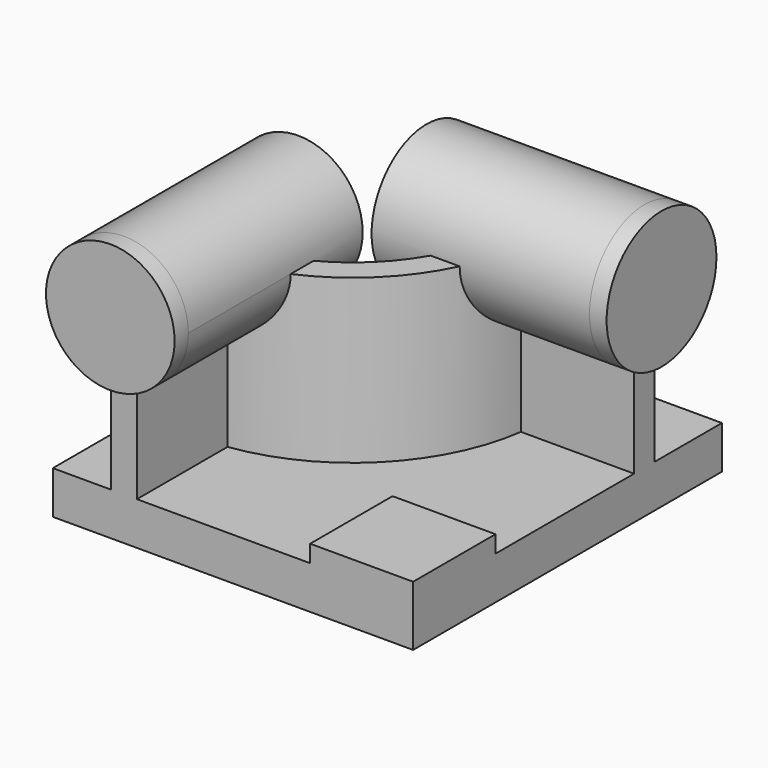
from build123d import *

# Parameters (mm, degrees)
F0_W          = 210
F0_H          = 225
F1_DEPTH      = 25
F3_DEPTH      = 95
F4_R          = 37.5
F5_DEPTH      = 10
F5_DEPTH_BACK = 127
F6_R          = 40
F7_DEPTH      = 10
F7_DEPTH_BACK = 127
F8_W          = 60
F8_H          = 60
F9_DEPTH      = 10


with BuildPart() as f1:
    # F0 (on Top) → F1 (new body)
    with BuildSketch(Plane.XY):
        Rectangle(F0_W, F0_H)
    extrude(amount=F1_DEPTH)

    # F2 (on face) → F3 (join)
    with BuildSketch(Plane.XY.offset(25)):
        with BuildLine():
            Line((-71, -32.5), (-71, -112.5))
            Line((-71, -112.5), (-56, -112.5))
            Line((-56, -112.5), (-56, -46.481817))
            ThreePointArc((-56, -46.481817), (7.488853, -14.988853), (38.981817, 48.5))
            Line((38.981817, 48.5), (105, 48.5))
            Line((105, 48.5), (105, 63.5))
            Line((105, 63.5), (25, 63.5))
            ThreePointArc((25, 63.5), (-3.117749, -4.382251), (-71, -32.5))
        make_face()
    extrude(amount=F3_DEPTH)

    # F4 (on face) → F5 (join, two sides)
    with BuildSketch(Plane.XZ.offset(112.5)) as f5_sk:
        with Locations((-63.5, 120)):
            Circle(F4_R)
    extrude(amount=F5_DEPTH)
    extrude(f5_sk.sketch, amount=-F5_DEPTH_BACK)

    # F6 (on face) → F7 (join, two sides)
    with BuildSketch(Plane.YZ.offset(105)) as f7_sk:
        with Locations((56, 120)):
            Circle(F6_R)
    extrude(amount=F7_DEPTH)
    extrude(f7_sk.sketch, amount=-F7_DEPTH_BACK)

    # F8 (on face) → F9 (join)
    with BuildSketch(Plane.XY.offset(25)):
        with Locations((75, -82.5)):
            Rectangle(F8_W, F8_H)
    extrude(amount=F9_DEPTH)


solid = f1.part
